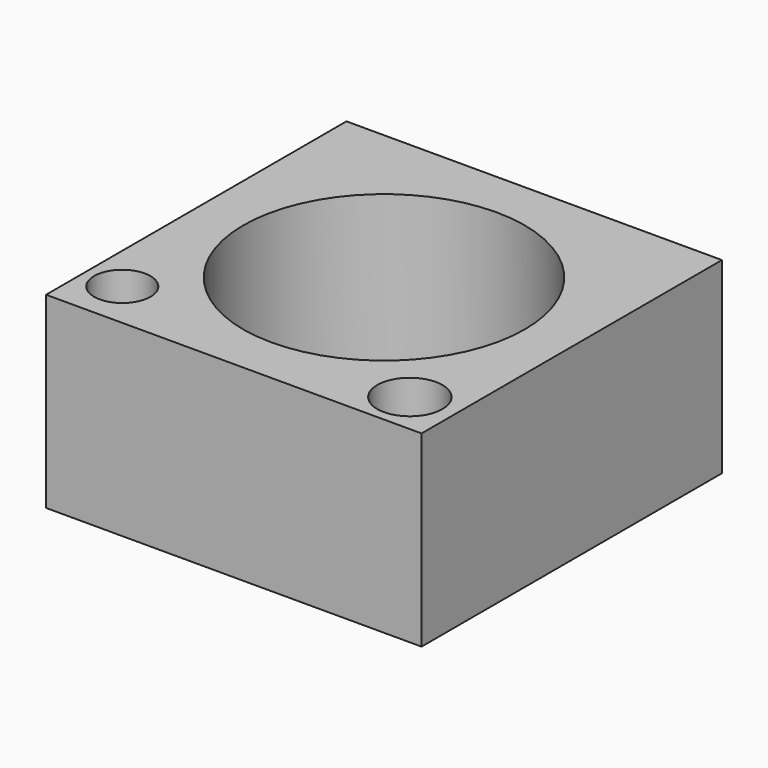
from build123d import *

# Parameters (mm, degrees)
F0_W     = 25.4
F0_H     = 25.4
F1_DEPTH = 12.7
F2_R     = 9.525
F3_DEPTH = 10.16
F4_R     = 8.255
F5_DEPTH = 2.541
F6_R     = 1.905
F7_DEPTH = 12.701
F8_R     = 2.205983
F9_DEPTH = 12.701


with BuildPart() as f1:
    # F0 (on Top) → F1 (new body)
    with BuildSketch(Plane.XY):
        with Locations((12.7, 12.7)):
            Rectangle(F0_W, F0_H)
    extrude(amount=F1_DEPTH)

    # F2 (on face) → F3 (cut)
    with BuildSketch(Plane.XY.offset(12.7)):
        with Locations((12.7, 12.7)):
            Circle(F2_R)
    extrude(amount=-F3_DEPTH, mode=Mode.SUBTRACT)

    # F4 (on face) → F5 (cut, through all)
    with BuildSketch(Plane.XY.offset(2.54)):
        with Locations((12.7, 12.7)):
            Circle(F4_R)
    extrude(amount=-F5_DEPTH, mode=Mode.SUBTRACT)

    # F6 (on face) → F7 (cut, through all)
    with BuildSketch(Plane.XY.offset(12.7)):
        with Locations((2.54899, 3.257044)):
            Circle(F6_R)
    extrude(amount=-F7_DEPTH, mode=Mode.SUBTRACT)

    # F8 (on face) → F9 (cut, through all)
    with BuildSketch(Plane.XY.offset(12.7)):
        with Locations((22.317057, 2.864695)):
            Circle(F8_R)
    extrude(amount=-F9_DEPTH, mode=Mode.SUBTRACT)


solid = f1.part
